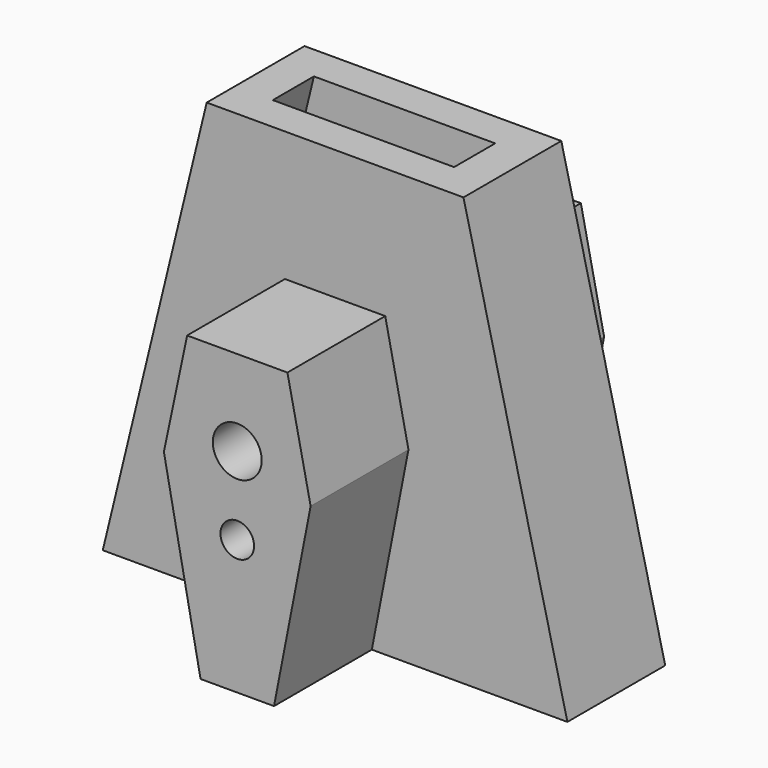
from build123d import *

# Parameters (mm, degrees)
F1_DEPTH = 5
F3_DEPTH = 2.1
F4_R     = 1.375
F4_R_2   = 2
F5_DEPTH = 15
F6_W     = 3.8688962813
F6_H     = 4.2
F6_W_2   = 6.0080378316
F6_W_3   = 3.8534507621
F7_DEPTH = 35.001
F8_DEPTH = 20.001


with BuildPart() as f1:
    # F0 (on Front) → F1 (new body, symmetric)
    with BuildSketch(Plane.XZ):
        Polygon((-10.5, 35), (-19, 0), (19, 0), (10.5, 35), align=None)
    extrude(amount=F1_DEPTH, both=True)

    # F2 (on Front) → F3 (cut, symmetric)
    with BuildSketch(Plane.XZ):
        Polygon((-7.4127979777, 35), (-16.0847388882, -0.7079919843), (16.0847388882, -0.7079919843), (7.4127979777, 35), align=None)
    extrude(amount=F3_DEPTH, both=True, mode=Mode.SUBTRACT)

    # F4 (on Front) → F5 (join, symmetric)
    with BuildSketch(Plane.XZ):
        Polygon((4.1015339084, 24.375), (-4.1015339084, 24.375), (-6, 15.375), (-3.0040189158, 0), (3.0040189158, 0), (6, 15.375), align=None)
        with Locations((0, 11)):
            Circle(F4_R, mode=Mode.SUBTRACT)
        with Locations((0, 17.375)):
            Circle(F4_R_2, mode=Mode.SUBTRACT)
    extrude(amount=F5_DEPTH, both=True)

    # F6 (on face) → F7 (cut, through all)
    with BuildSketch(Plane(origin=(0, 0, 0), x_dir=(1, 0, 0), z_dir=(0, 0, -1))):
        with Locations((-4.9384670565, 0)):
            Rectangle(F6_W, F6_H)
        Rectangle(F6_W_2, F6_H)
        with Locations((4.9307442969, 0)):
            Rectangle(F6_W_3, F6_H)
    extrude(amount=-F7_DEPTH, mode=Mode.SUBTRACT)

    # F8 (cut, through all): faces of the model
    f8_faces = [f1.faces().sort_by_distance(p)[0] for p in [
        (0, 5, 17.375),
        (0, 5, 11),
    ]]
    extrude(f8_faces, amount=-F8_DEPTH, mode=Mode.SUBTRACT)


solid = f1.part
